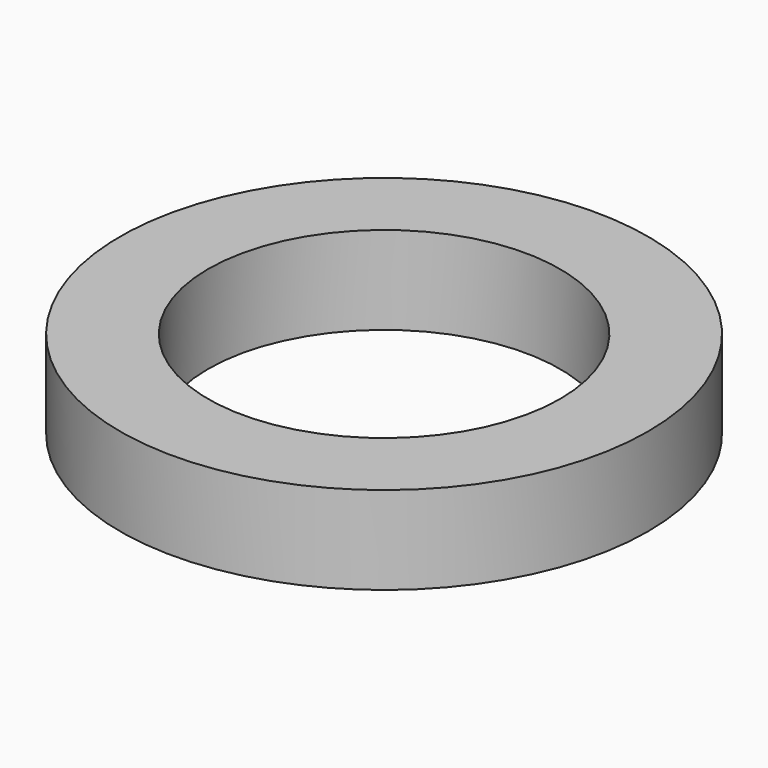
from build123d import *

# Parameters (mm, degrees)
SKETCH_R   = 3
SKETCH_R_2 = 2
PAD_DEPTH  = 1


with BuildPart() as part:
    # Sketch → Pad (new body)
    with BuildSketch(Plane.XY):
        Circle(SKETCH_R)
        Circle(SKETCH_R_2, mode=Mode.SUBTRACT)
    extrude(amount=PAD_DEPTH)


solid = part.part
